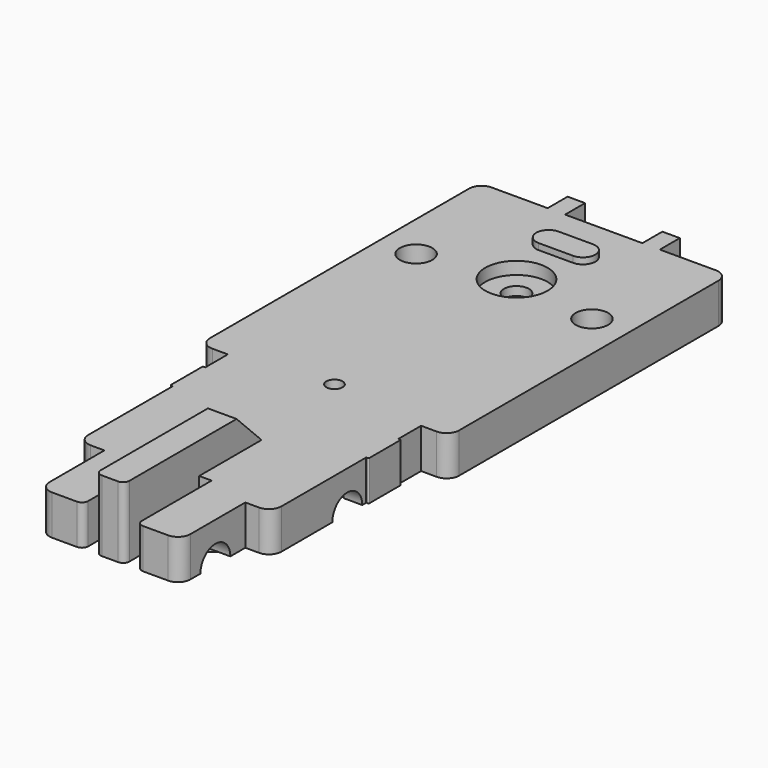
from build123d import *

# Parameters (mm, degrees)
PAD042_DEPTH       = 1.7
SKETCH081_W        = 9
SKETCH081_H        = 2
PAD043_DEPTH       = 4.8
SKETCH082_W        = 6.2
SKETCH082_H        = 3
POCKET044_DEPTH    = 2
SKETCH083_R        = 0.75
SKETCH083_R_2      = 1.3
SKETCH083_R_3      = 0.65
POCKET045_DEPTH    = 1.7
SKETCH084_R        = 2.5
POCKET046_DEPTH    = 1
PAD044_DEPTH       = 0.5
SKETCH086_W        = 2.3
SKETCH086_H        = 13.75
PAD045_DEPTH       = 2.5
POCKET047_DEPTH    = 2.3
PAD046_DEPTH       = 1.5
PAD047_DEPTH       = 1.5
POCKET048_DEPTH    = 1.5
SKETCH092_R        = 3.475
PAD048_DEPTH       = 1.5
SKETCH093_R        = 2.2
POCKET050_DEPTH    = 1.5
SKETCH094_R        = 1.7
SKETCH094_R_2      = 2.2
PAD049_DEPTH       = 4
SKETCH095_R        = 0.75
POCKET051_DEPTH    = 4
PAD050_DEPTH       = 0.4
SKETCH097_R        = 1.5
POCKET052_DEPTH    = 12
SKETCH098_R        = 1.5
POCKET053_DEPTH    = 16
SKETCH099_W        = 3.25
SKETCH099_H        = 3.2
PAD051_DEPTH       = 0.2
FILLET026_R        = 0.1
SKETCH100_W        = 3.25
SKETCH100_H        = 3.2
PAD052_DEPTH       = 0.2
FILLET027_R        = 0.1
SKETCH101_W        = 1
SKETCH101_H        = 7.5
POCKET054_DEPTH    = 4
FILLET043_R        = 0.5
SKETCH256_W        = 6.2
SKETCH256_H        = 2
POCKET118_DEPTH    = 0.2
POCKET118_FACE79_W = 2
POCKET118_FACE79_H = 6.2
POCKET145_DEPTH    = 0.1
SKETCH308_W        = 2.3
SKETCH308_H        = 2.2
PAD177_DEPTH       = 2
PAD177_FACE134_W   = 2.2
PAD177_FACE134_H   = 2.3
POCKET146_DEPTH    = 1.05
CHAMFER001_SIZE    = 0.1
SKETCH309_W        = 2
SKETCH309_H        = 1.2
SKETCH309_W_2      = 1.2
SKETCH309_H_2      = 2
PAD178_DEPTH       = 0.5
CHAMFER002_SIZE    = 0.4999
SKETCH310_R        = 1
POCKET147_DEPTH    = 5
SKETCH350_R        = 2.2
SKETCH350_R_2      = 0.75
PAD210_DEPTH       = 4
PAD210_FACE85_W    = 2.2
PAD210_FACE85_H    = 2.3
PAD211_DEPTH       = 0.2
POCKET169_DEPTH    = 7


with BuildPart() as part:
    # Sketch080 → Pad042 (new body)
    with BuildSketch(Plane.XY):
        with BuildLine():
            Line((10, 7.75), (10, -18.25))
            ThreePointArc((9, -19.25), (9.707107, -18.957107), (10, -18.25))
            Line((9, -19.25), (7.75, -19.25))
            Line((7.75, -19.25), (7.75, -33.25))
            ThreePointArc((6.75, -34.25), (7.457107, -33.957107), (7.75, -33.25))
            Line((5.65, -34.25), (6.75, -34.25))
            Line((5.65, -34.25), (5.65, -39.75))
            ThreePointArc((4.65, -40.75), (5.357107, -40.457107), (5.65, -39.75))
            Line((4.65, -40.75), (-4.65, -40.75))
            ThreePointArc((-5.65, -39.75), (-5.357107, -40.457107), (-4.65, -40.75))
            Line((-5.65, -39.75), (-5.65, -34.25))
            Line((-6.75, -34.25), (-5.65, -34.25))
            ThreePointArc((-7.75, -33.25), (-7.457107, -33.957107), (-6.75, -34.25))
            Line((-7.75, -33.25), (-7.75, -19.25))
            Line((-9, -19.25), (-7.75, -19.25))
            ThreePointArc((-10, -18.25), (-9.707107, -18.957107), (-9, -19.25))
            Line((-10, -18.25), (-10, 7.75))
            ThreePointArc((-9, 8.75), (-9.707107, 8.457107), (-10, 7.75))
            Line((-9, 8.75), (9, 8.75))
            ThreePointArc((10, 7.75), (9.707107, 8.457107), (9, 8.75))
        make_face()
    extrude(amount=PAD042_DEPTH)

    # Sketch081 (on DatumPlane) → Pad043 (join)
    with BuildSketch(Plane.XY.offset(1.7)):
        with Locations((0, 9.75)):
            Rectangle(SKETCH081_W, SKETCH081_H)
    extrude(amount=-PAD043_DEPTH)

    # Sketch082 (on DatumPlane) → Pocket044 (cut)
    with BuildSketch(Plane(origin=(0, 10.75, 0), x_dir=(-1, 0, 0), z_dir=(0, 1, 0))):
        with Locations((0, 0.2)):
            Rectangle(SKETCH082_W, SKETCH082_H)
    extrude(amount=-POCKET044_DEPTH, mode=Mode.SUBTRACT)

    # Sketch083 (on DatumPlane) → Pocket045 (cut)
    with BuildSketch(Plane.XY.offset(1.7)):
        Circle(SKETCH083_R)
        with Locations((-7.05, -1.25)):
            Circle(SKETCH083_R_2)
        with Locations((7.05, -1.25)):
            Circle(SKETCH083_R_2)
        with Locations((0, -18.25)):
            Circle(SKETCH083_R_3)
    extrude(amount=-POCKET045_DEPTH, mode=Mode.SUBTRACT)

    # Sketch084 (on DatumPlane) → Pocket046 (cut)
    with BuildSketch(Plane.XY.offset(1.7)):
        Circle(SKETCH084_R)
    extrude(amount=-POCKET046_DEPTH, mode=Mode.SUBTRACT)

    # Sketch085 (on DatumPlane) → Pad044 (join)
    with BuildSketch(Plane.XY.offset(1.7)):
        with BuildLine():
            ThreePointArc((-1.375, 5.95), (-2.375, 4.95), (-1.375, 3.95))
            Line((-1.375, 3.95), (1.375, 3.95))
            ThreePointArc((1.375, 3.95), (2.375, 4.95), (1.375, 5.95))
            Line((-1.375, 5.95), (1.375, 5.95))
        make_face()
    extrude(amount=PAD044_DEPTH)

    # Sketch086 (on DatumPlane) → Pad045 (join)
    with BuildSketch(Plane.XY.offset(1.7)):
        with Locations((0, -33.875)):
            Rectangle(SKETCH086_W, SKETCH086_H)
    extrude(amount=PAD045_DEPTH)

    # Sketch087 (on DatumPlane) → Pocket047 (cut)
    with BuildSketch(Plane.YZ.offset(1.15)):
        Polygon((-27, 1.7), (-27, 4.2), (-29.5, 4.2), align=None)
    extrude(amount=-POCKET047_DEPTH, mode=Mode.SUBTRACT)

    # Sketch088 (on Face4 of Pocket047) → Pad046 (join)
    with BuildSketch(Plane(origin=(0, 0, 0), x_dir=(1, 0, 0), z_dir=(0, 0, -1))):
        with BuildLine():
            ThreePointArc((-4.65, 40.75), (-5.357107, 40.457107), (-5.65, 39.75))
            Line((-5.65, 39.75), (-5.65, 34.25))
            Line((5.65, 34.25), (-5.65, 34.25))
            Line((5.65, 39.75), (5.65, 34.25))
            ThreePointArc((5.65, 39.75), (5.357107, 40.457107), (4.65, 40.75))
            Line((-4.65, 40.75), (4.65, 40.75))
        make_face()
    extrude(amount=PAD046_DEPTH)

    # Sketch089 (on Face4 of Pad046) → Pad047 (join)
    with BuildSketch(Plane(origin=(0, 0, 0), x_dir=(1, 0, 0), z_dir=(0, 0, -1))):
        with BuildLine():
            Line((7.75, 33.25), (7.75, 19.25))
            Line((7.75, 19.25), (9, 19.25))
            ThreePointArc((10, 18.25), (9.707107, 18.957107), (9, 19.25))
            Line((10, 18.25), (10, -7.75))
            ThreePointArc((9, -8.75), (9.707107, -8.457107), (10, -7.75))
            Line((9, -8.75), (-9, -8.75))
            ThreePointArc((-10, -7.75), (-9.707107, -8.457107), (-9, -8.75))
            Line((-10, -7.75), (-10, 18.25))
            ThreePointArc((-9, 19.25), (-9.707107, 18.957107), (-10, 18.25))
            Line((-9, 19.25), (-7.75, 19.25))
            Line((-7.75, 33.25), (-7.75, 19.25))
            ThreePointArc((-6.75, 34.25), (-7.457107, 33.957107), (-7.75, 33.25))
            Line((6.75, 34.25), (-6.75, 34.25))
            ThreePointArc((7.75, 33.25), (7.457107, 33.957107), (6.75, 34.25))
        make_face()
    extrude(amount=PAD047_DEPTH)

    # Sketch090 (on Face40 of Pad047) → Pocket048 (cut)
    with BuildSketch(Plane(origin=(0, 0, -1.5), x_dir=(1, 0, 0), z_dir=(0, 0, -1))):
        with BuildLine():
            ThreePointArc((-3.1, -8.25), (-3.392893, -7.542893), (-4.1, -7.25))
            Line((-4.1, -7.25), (-8.5, -7.25))
            Line((-8.5, -7.25), (-8.5, 17.75))
            Line((-7.25, 17.75), (-8.5, 17.75))
            ThreePointArc((-7.25, 17.75), (-6.542893, 18.042893), (-6.25, 18.75))
            Line((-6.25, 18.75), (-6.25, 32.75))
            Line((-6.25, 32.75), (-5.15, 32.75))
            ThreePointArc((-5.15, 32.75), (-4.442893, 33.042893), (-4.15, 33.75))
            Line((-4.15, 33.75), (-4.15, 34.25))
            Line((-4.15, 34.25), (4.15, 34.25))
            Line((4.15, 34.25), (4.15, 33.75))
            ThreePointArc((4.15, 33.75), (4.442893, 33.042893), (5.15, 32.75))
            Line((5.15, 32.75), (6.25, 32.75))
            Line((6.25, 18.75), (6.25, 32.75))
            ThreePointArc((6.25, 18.75), (6.542893, 18.042893), (7.25, 17.75))
            Line((8.5, 17.75), (7.25, 17.75))
            Line((8.5, -7.25), (8.5, 17.75))
            Line((4.1, -7.25), (8.5, -7.25))
            ThreePointArc((4.1, -7.25), (3.392893, -7.542893), (3.1, -8.25))
            Line((3.1, -8.75), (3.1, -8.25))
            Line((-3.1, -8.75), (3.1, -8.75))
            Line((-3.1, -8.25), (-3.1, -8.75))
        make_face()
    extrude(amount=-POCKET048_DEPTH, mode=Mode.SUBTRACT)

    # Sketch092 (on Face42 of Pocket048) → Pad048 (join)
    with BuildSketch(Plane(origin=(0, 0, 0), x_dir=(1, 0, 0), z_dir=(0, 0, -1))):
        Circle(SKETCH092_R)
    extrude(amount=PAD048_DEPTH)

    # Sketch093 (on Face69 of Pad048) → Pocket050 (cut)
    with BuildSketch(Plane(origin=(0, 0, -1.5), x_dir=(1, 0, 0), z_dir=(0, 0, -1))):
        Circle(SKETCH093_R)
    extrude(amount=-POCKET050_DEPTH, mode=Mode.SUBTRACT)

    # Sketch094 (on Face45 of Pocket050) → Pad049 (join)
    with BuildSketch(Plane(origin=(0, 0, 0), x_dir=(1, 0, 0), z_dir=(0, 0, -1))):
        with Locations((0, 18.25)):
            Circle(SKETCH094_R)
        with Locations((0, 30.55)):
            Circle(SKETCH094_R_2)
    extrude(amount=PAD049_DEPTH)

    # Sketch095 (on Face72 of Pad049) → Pocket051 (cut)
    with BuildSketch(Plane(origin=(0, 0, -4), x_dir=(1, 0, 0), z_dir=(0, 0, -1))):
        with Locations((0, 30.55)):
            Circle(SKETCH095_R)
    extrude(amount=-POCKET051_DEPTH, mode=Mode.SUBTRACT)

    # Sketch096 (on Face45 of Pocket051) → Pad050 (join)
    with BuildSketch(Plane(origin=(0, 0, 0), x_dir=(1, 0, 0), z_dir=(0, 0, -1))):
        with BuildLine():
            ThreePointArc((-3, 17.55), (-2.3, 18.25), (-3, 18.95))
            Line((-3, 18.95), (-5, 18.95))
            ThreePointArc((-5, 18.95), (-5.7, 18.25), (-5, 17.55))
            Line((-3, 17.55), (-5, 17.55))
        make_face()
        with BuildLine():
            ThreePointArc((3, 18.95), (2.3, 18.25), (3, 17.55))
            Line((3, 17.55), (5, 17.55))
            ThreePointArc((5, 17.55), (5.7, 18.25), (5, 18.95))
            Line((3, 18.95), (5, 18.95))
        make_face()
        with BuildLine():
            ThreePointArc((-0.7, 21.25), (0, 20.55), (0.7, 21.25))
            Line((0.7, 21.25), (0.7, 23.25))
            ThreePointArc((0.7, 23.25), (0, 23.95), (-0.7, 23.25))
            Line((-0.7, 21.25), (-0.7, 23.25))
        make_face()
        with BuildLine():
            ThreePointArc((0.7, 15.25), (0, 15.95), (-0.7, 15.25))
            Line((-0.7, 15.25), (-0.7, 13.25))
            ThreePointArc((-0.7, 13.25), (0, 12.55), (0.7, 13.25))
            Line((0.7, 15.25), (0.7, 13.25))
        make_face()
    extrude(amount=PAD050_DEPTH)

    # Sketch097 (on Face8 of Pad050) → Pocket052 (cut)
    with BuildSketch(Plane.YZ.offset(5.65)):
        with Locations((-37.25, -1.5)):
            Circle(SKETCH097_R)
    extrude(amount=-POCKET052_DEPTH, mode=Mode.SUBTRACT)

    # Sketch098 (on Face5 of Pocket052) → Pocket053 (cut)
    with BuildSketch(Plane.YZ.offset(7.75)):
        with Locations((-26.65, -1.5)):
            Circle(SKETCH098_R)
    extrude(amount=-POCKET053_DEPTH, mode=Mode.SUBTRACT)

    # Sketch099 (on Face8 of Pocket053) → Pad051 (join)
    with BuildSketch(Plane.YZ.offset(7.75)):
        with Locations((-23.125, 0.1)):
            Rectangle(SKETCH099_W, SKETCH099_H)
    extrude(amount=PAD051_DEPTH)

    # Fillet026
    fillet026_edges = [part.edges().sort_by_distance(p)[0] for p in [
        (7.95, -24.75, 0.1),
        (7.95, -21.5, 0.1),
    ]]
    fillet(fillet026_edges, radius=FILLET026_R)

    # Sketch100 (on Face40 of Fillet026) → Pad052 (join)
    with BuildSketch(Plane(origin=(-7.75, 0, 0), x_dir=(0, -1, 0), z_dir=(-1, 0, 0))):
        with Locations((23.125, 0.1)):
            Rectangle(SKETCH100_W, SKETCH100_H)
    extrude(amount=PAD052_DEPTH)

    # Fillet027
    fillet027_edges = [part.edges().sort_by_distance(p)[0] for p in [
        (-7.95, -21.5, 0.1),
        (-7.95, -24.75, 0.1),
    ]]
    fillet(fillet027_edges, radius=FILLET027_R)

    # Sketch101 (on Face77 of Fillet027) → Pocket054 (cut)
    with BuildSketch(Plane(origin=(0, 0, -1.5), x_dir=(1, 0, 0), z_dir=(0, 0, -1))):
        with Locations((-1.65, 37)):
            Rectangle(SKETCH101_W, SKETCH101_H)
        with Locations((1.65, 37)):
            Rectangle(SKETCH101_W, SKETCH101_H)
    extrude(amount=-POCKET054_DEPTH, mode=Mode.SUBTRACT)

    # Fillet043
    fillet043_edges = [part.edges().sort_by_distance(p)[0] for p in [
        (2.15, -40.75, 0.1),
        (1.15, -40.75, 1.35),
        (-1.15, -40.75, 1.35),
        (-2.15, -40.75, 0.1),
    ]]
    fillet(fillet043_edges, radius=FILLET043_R)

    # Sketch256 (on Face81 of Fillet043) → Pocket118 (cut)
    with BuildSketch(Plane.XY.offset(-1.3)):
        with Locations((0, 9.75)):
            Rectangle(SKETCH256_W, SKETCH256_H)
    extrude(amount=-POCKET118_DEPTH, mode=Mode.SUBTRACT)

    # Pocket118 Face79 → Pocket145 (cut)
    with BuildSketch(Plane(origin=(0, 9.75, -1.5), x_dir=(0, 1, 0), z_dir=(0, 0, 1))):
        Rectangle(POCKET118_FACE79_W, POCKET118_FACE79_H)
    extrude(amount=-POCKET145_DEPTH, mode=Mode.SUBTRACT)

    # Sketch308 (on Face64 of Pocket145) → Pad177 (join)
    with BuildSketch(Plane(origin=(0, 0, -1.5), x_dir=(1, 0, 0), z_dir=(0, 0, -1))):
        with Locations((0, 37.25)):
            Rectangle(SKETCH308_W, SKETCH308_H)
    extrude(amount=-PAD177_DEPTH)

    # Pad177 Face134 → Pocket146 (cut)
    with BuildSketch(Plane(origin=(0, -37.25, -1.5), x_dir=(0, -1, 0), z_dir=(0, 0, -1))):
        Rectangle(PAD177_FACE134_W, PAD177_FACE134_H)
    extrude(amount=-POCKET146_DEPTH, mode=Mode.SUBTRACT)

    # Chamfer001
    chamfer001_edges = [part.edges().sort_by_distance(p)[0] for p in [
        (0.7, -22.25, -0.4),
        (0, -20.55, -0.4),
        (-0.7, -22.25, -0.4),
        (0, -23.95, -0.4),
        (4, -18.95, -0.4),
        (2.3, -18.25, -0.4),
        (4, -17.55, -0.4),
        (0.7, -14.25, -0.4),
        (0, -15.95, -0.4),
        (-0.7, -14.25, -0.4),
        (0, -12.55, -0.4),
        (5.7, -18.25, -0.4),
        (-2.3, -18.25, -0.4),
        (-4, -17.55, -0.4),
        (-4, -18.95, -0.4),
        (-5.7, -18.25, -0.4),
    ]]
    chamfer(chamfer001_edges, length=CHAMFER001_SIZE)

    # Sketch309 (on Face8 of Chamfer001) → Pad178 (join)
    with BuildSketch(Plane(origin=(0, 0, -0.4), x_dir=(1, 0, 0), z_dir=(0, 0, -1))):
        with Locations((4, 18.25)):
            Rectangle(SKETCH309_W, SKETCH309_H)
        with Locations((0, 22.25)):
            Rectangle(SKETCH309_W_2, SKETCH309_H_2)
        with Locations((-4, 18.25)):
            Rectangle(SKETCH309_W, SKETCH309_H)
        with Locations((0, 14.25)):
            Rectangle(SKETCH309_W_2, SKETCH309_H_2)
    extrude(amount=PAD178_DEPTH)

    # Chamfer002
    chamfer002_edges = [part.edges().sort_by_distance(p)[0] for p in [
        (4, -17.65, -0.9),
        (4, -18.85, -0.9),
        (0.6, -14.25, -0.9),
        (-0.6, -14.25, -0.9),
        (0.6, -22.25, -0.9),
        (-0.6, -22.25, -0.9),
        (-4, -18.85, -0.9),
        (-4, -17.65, -0.9),
    ]]
    chamfer(chamfer002_edges, length=CHAMFER002_SIZE)

    # Sketch310 (on Face184 of Chamfer002) → Pocket147 (cut)
    with BuildSketch(Plane(origin=(0, 0, 0), x_dir=(1, 0, 0), z_dir=(0, 0, -1))):
        Circle(SKETCH310_R)
    extrude(amount=-POCKET147_DEPTH, mode=Mode.SUBTRACT)

    # Sketch350 (on Face16 of Pocket147) → Pad210 (join)
    with BuildSketch(Plane(origin=(0, 0, 0), x_dir=(1, 0, 0), z_dir=(0, 0, -1))):
        with Locations((0, 7.55)):
            Circle(SKETCH350_R)
        with Locations((0, 7.55)):
            Circle(SKETCH350_R_2, mode=Mode.SUBTRACT)
    extrude(amount=PAD210_DEPTH)

    # Pad210 Face85 → Pad211 (add)
    with BuildSketch(Plane(origin=(0, -37.25, -0.45), x_dir=(0, -1, 0), z_dir=(0, 0, -1))):
        Rectangle(PAD210_FACE85_W, PAD210_FACE85_H)
    extrude(amount=PAD211_DEPTH)

    # Sketch352 (on Face124 of Pad211) → Pocket169 (cut)
    with BuildSketch(Plane(origin=(-5.65, 0, 0), x_dir=(0, -1, 0), z_dir=(-1, 0, 0))):
        with BuildLine():
            ThreePointArc((38.75, -1.5), (37.25, 0), (35.75, -1.5))
            Line((35.75, -1.5), (38.75, -1.5))
        make_face()
    extrude(amount=-POCKET169_DEPTH, mode=Mode.SUBTRACT)


with BuildPart() as part_1:
    # Body009 placement: moved
    add(part.part.moved(Location((38.2, -13.75, 1.5))))


solid = part_1.part
